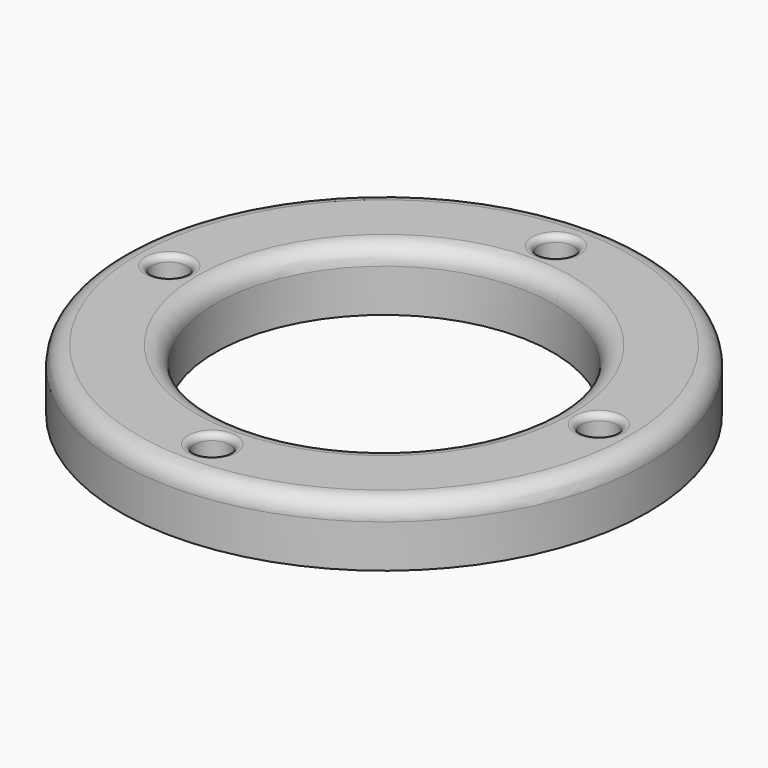
from build123d import *

# Parameters (mm, degrees)
SKETCH_R    = 43
SKETCH_R_2  = 2.9
SKETCH_R_3  = 27.5
PAD_DEPTH   = 10
FILLET_R    = 1
FILLET001_R = 3


with BuildPart() as part:
    # Sketch → Pad (new body)
    with BuildSketch(Plane.XY):
        Circle(SKETCH_R)
        with Locations((0, 35)):
            Circle(SKETCH_R_2, mode=Mode.SUBTRACT)
        with Locations((35, 0)):
            Circle(SKETCH_R_2, mode=Mode.SUBTRACT)
        with Locations((0, -35)):
            Circle(SKETCH_R_2, mode=Mode.SUBTRACT)
        with Locations((-35, 0)):
            Circle(SKETCH_R_2, mode=Mode.SUBTRACT)
        Circle(SKETCH_R_3, mode=Mode.SUBTRACT)
    extrude(amount=PAD_DEPTH)

    # Fillet
    fillet_edges = [part.edges().sort_by_distance(p)[0] for p in [
        (-37.9, 0, 10),
        (-2.9, 35, 10),
        (32.1, 0, 10),
        (-2.9, -35, 10),
    ]]
    fillet(fillet_edges, radius=FILLET_R)

    # Fillet001
    fillet001_edges = [part.edges().sort_by_distance(p)[0] for p in [
        (-27.5, 0, 10),
        (-43, 0, 10),
    ]]
    fillet(fillet001_edges, radius=FILLET001_R)


solid = part.part
